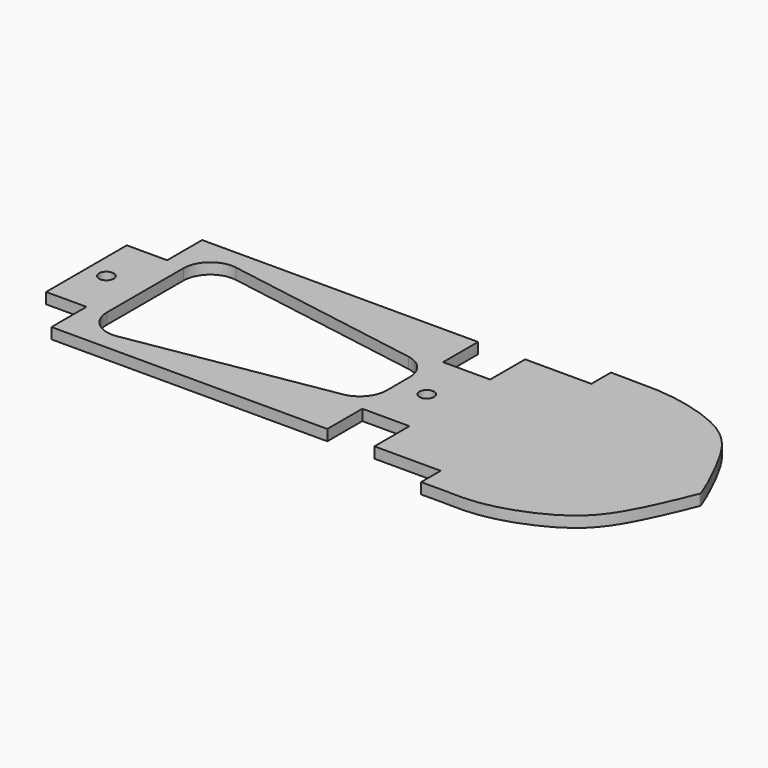
from build123d import *

# Parameters (mm, degrees)
F0_W     = 41.91
F0_H     = 19.05
F0_R     = 1.3890625
F0_W_2   = 52.07
F0_H_2   = 8.255
F0_W_3   = 7.62
F1_DEPTH = 2.0574
F3_DEPTH = 2.0574
F5_DEPTH = 12.7
F6_R     = 5.08


with BuildPart() as f1:
    # F0 (on Top) → F1 (new body)
    with BuildSketch(Plane.XY):
        with Locations((29.845, 0)):
            Rectangle(F0_W, F0_H)
        with Locations((13.4267662017, 0)):
            Circle(F0_R, mode=Mode.SUBTRACT)
        with Locations((-17.145, -13.6525)):
            Rectangle(F0_W_2, F0_H_2)
        with Locations((-17.145, 0)):
            Rectangle(F0_W_2, F0_H)
        with Locations((-46.99, 0)):
            Rectangle(F0_W_3, F0_H)
        with Locations((-47.0252337983, 0)):
            Circle(F0_R, mode=Mode.SUBTRACT)
        with Locations((-17.145, 13.6525)):
            Rectangle(F0_W_2, F0_H_2)
    extrude(amount=F1_DEPTH)

    # F2 (on Top) → F3 (join)
    with BuildSketch(Plane.XY):
        with BuildLine():
            add(Edge.make_bspline(
                [(30.2796192753, 22.3951932201), (34.47761225, 22.2355197105), (40.54497388, 22.8560402759), (54.3807379627, 19.1979683007), (60.0879375817, 11.4498849698), (64.8467251166, 0.7216945038), (64.6662684157, 0.3740880638)],
                knots=[0, 0, 0, 0, 0.2383917442, 0.4983697633, 0.7405972723, 0.9754210457, 0.9754210457, 0.9754210457, 0.9754210457], degree=3))
            Line((30.2796192753, 22.3951932201), (30.2796192753, 17.78))
            Line((30.2796192753, 17.78), (17.78, 17.78))
            Line((17.78, 17.78), (17.78, 0))
            Line((17.78, 0), (17.78, -17.78))
            Line((17.78, -17.78), (30.2796192753, -17.78))
            Line((30.2796192753, -17.78), (30.2796192753, -22.3951932201))
            add(Edge.make_bspline(
                [(30.2796192753, -22.3951932201), (34.4859564493, -22.2352023333), (40.7613792543, -23.2344876139), (54.2509767666, -18.1718013245), (60.245134847, -10.8159221732), (64.5606245101, 0.1067004431), (64.6662684157, 0.3740880638)],
                knots=[0, 0, 0, 0, 0.2388655869, 0.4997646762, 0.7413186088, 0.9754893938, 0.9754893938, 0.9754893938, 0.9754893938], degree=3))
        make_face()
        with BuildLine():
            add(Edge.make_bspline(
                [(64.6662684157, 0.3740880638), (64.6773261408, 0.4020754691), (64.6662684157, 0.3740880638), (64.5520137623, 0.3740880638)],
                knots=[0.9754893938, 0.9754893938, 0.9754893938, 0.9754893938, 1, 1, 1, 1], degree=3))
            add(Edge.make_bspline(
                [(64.6662684157, 0.3740880638), (64.6473800513, 0.3377041719), (64.6008511396, 0.3553676853), (64.5520137623, 0.3740880638)],
                knots=[0.9754210457, 0.9754210457, 0.9754210457, 0.9754210457, 1, 1, 1, 1], degree=3))
        make_face(mode=Mode.SUBTRACT)
        with BuildLine():
            add(Edge.make_bspline(
                [(64.6662684157, 0.3740880638), (64.6473800513, 0.3377041719), (64.6008511396, 0.3553676853), (64.5520137623, 0.3740880638)],
                knots=[0.9754210457, 0.9754210457, 0.9754210457, 0.9754210457, 1, 1, 1, 1], degree=3))
            add(Edge.make_bspline(
                [(64.6662684157, 0.3740880638), (64.6773261408, 0.4020754691), (64.6662684157, 0.3740880638), (64.5520137623, 0.3740880638)],
                knots=[0.9754893938, 0.9754893938, 0.9754893938, 0.9754893938, 1, 1, 1, 1], degree=3))
        make_face()
    extrude(amount=F3_DEPTH)

    # F4 (on Top) → F5 (cut, symmetric)
    with BuildSketch(Plane.XY):
        Polygon((8.0361636356, -7.0120524615), (8.0361636356, 0), (8.0361636356, 7.0120524615), (-39.717592299, 15.0308534503), (-39.717592299, 0), (-39.717592299, -15.0308534503), align=None)
    extrude(amount=F5_DEPTH, both=True, mode=Mode.SUBTRACT)

    # F6
    f6_edges = [f1.edges().sort_by_distance(p)[0] for p in [
        (-39.717592, 15.030853, 1.0287),
        (8.036164, 7.012052, 1.0287),
        (8.036164, -7.012052, 1.0287),
        (-39.717592, -15.030853, 1.0287),
    ]]
    fillet(f6_edges, radius=F6_R)


solid = f1.part
